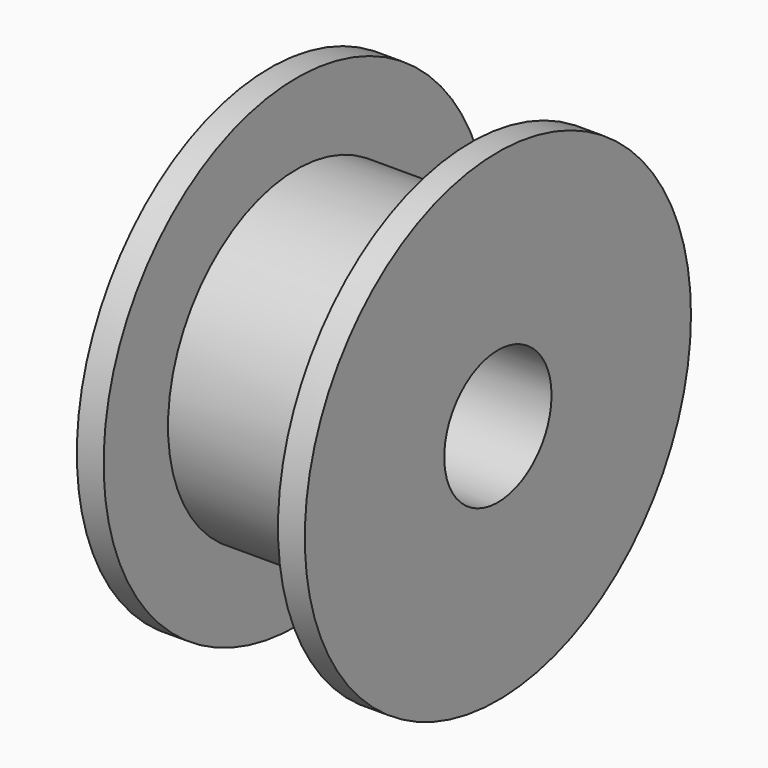
from build123d import *

# Parameters (mm, degrees)
CYLINDER285_R          = 2.5
CYLINDER285_DEPTH      = 14.5
CYLINDER284_R          = 6
CYLINDER284_DEPTH      = 6.5
CYLINDER283_R          = 9
CYLINDER283_DEPTH      = 1
CYLINDER282_R          = 9
CYLINDER282_DEPTH      = 1
CUT200_ROLL_ANGLE      = 90
CUT200_PLACEMENT_ANGLE = 90


with BuildPart() as cylinder285:
    # Cylinder285 → Cylinder285 (new body)
    with BuildSketch(Plane.XY.offset(-2.4)):
        Circle(CYLINDER285_R)
    extrude(amount=CYLINDER285_DEPTH)


with BuildPart() as cylinder284:
    # Cylinder284 → Cylinder284 (new body)
    with BuildSketch(Plane.XY.offset(1)):
        Circle(CYLINDER284_R)
    extrude(amount=CYLINDER284_DEPTH)


with BuildPart() as cylinder283:
    # Cylinder283 → Cylinder283 (new body)
    with BuildSketch(Plane.XY.offset(7.5)):
        Circle(CYLINDER283_R)
    extrude(amount=CYLINDER283_DEPTH)


with BuildPart() as cut200:
    # Cylinder282 → Cylinder282 (new body)
    with BuildSketch(Plane.XY):
        Circle(CYLINDER282_R)
    extrude(amount=CYLINDER282_DEPTH)

    # Fusion108: union Cylinder284, Cylinder283
    add(cylinder284.part)
    add(cylinder283.part)

    # Cut200: cut Cylinder285
    add(cylinder285.part, mode=Mode.SUBTRACT)


with BuildPart() as cut200_1:
    # Cut200 roll: moved
    add(cut200.part.rotate(Axis((0, 0, 0), (1, 0, 0)), CUT200_ROLL_ANGLE))


with BuildPart() as cut200_2:
    # Cut200 placement: moved
    add(cut200_1.part.moved(Location((117.3, 241.5, 70.48))).rotate(Axis((117.3, 241.5, 70.48), (0, 0, 1)), CUT200_PLACEMENT_ANGLE))


solid = cut200_2.part
